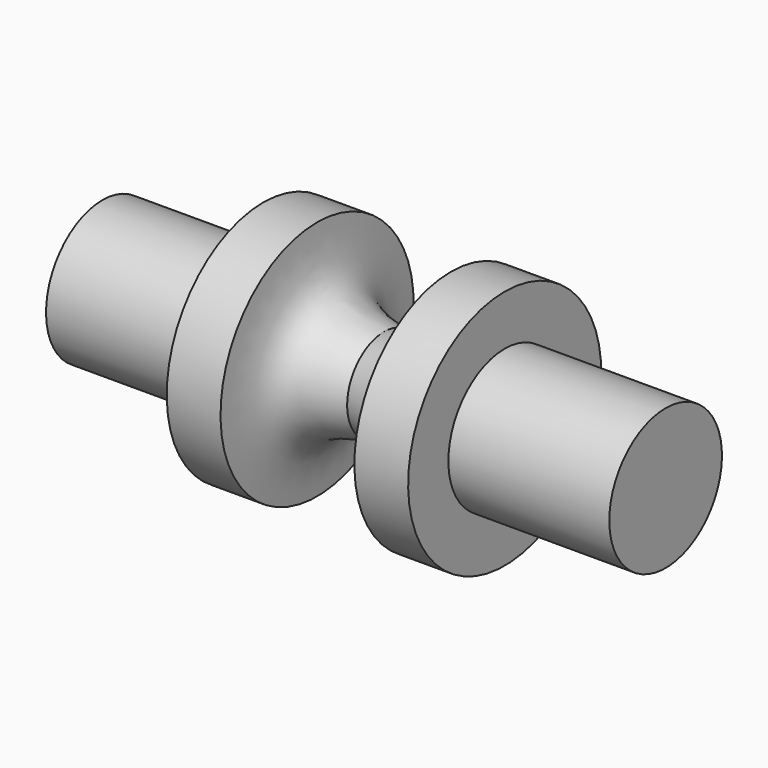
from build123d import *


with BuildPart() as f1:
    # F0 (on Front) → F1 (revolve)
    with BuildSketch(Plane.XZ):
        with BuildLine():
            Line((0, 11.4545442155), (0, 0))
            Line((0, 0), (70, 0))
            Line((70, 0), (70, 17.5))
            Line((70, 17.5), (30, 17.5))
            Line((30, 17.5), (30, 30))
            Line((30, 30), (16.6363608975, 30))
            add(Edge.make_bspline(
                [(16.6363608975, 30), (16.3359459293, 24.9959144902), (15.7248268752, 14.8163551265), (5.3001142489, 12.5876556992), (0, 11.4545442155)],
                knots=[0, 0, 0, 0, 0.4915817405, 1, 1, 1, 1], degree=3))
        make_face()
    revolve(axis=Axis((35, 0, 0), (1, 0, 0)))

    # F2: F1 across face


with BuildPart() as f1_1:
    add(f1.part)
    add(f1.part.mirror(Plane(origin=(0, 0, 0), x_dir=(0, -1, 0), z_dir=(-1, 0, 0))))


solid = f1_1.part
